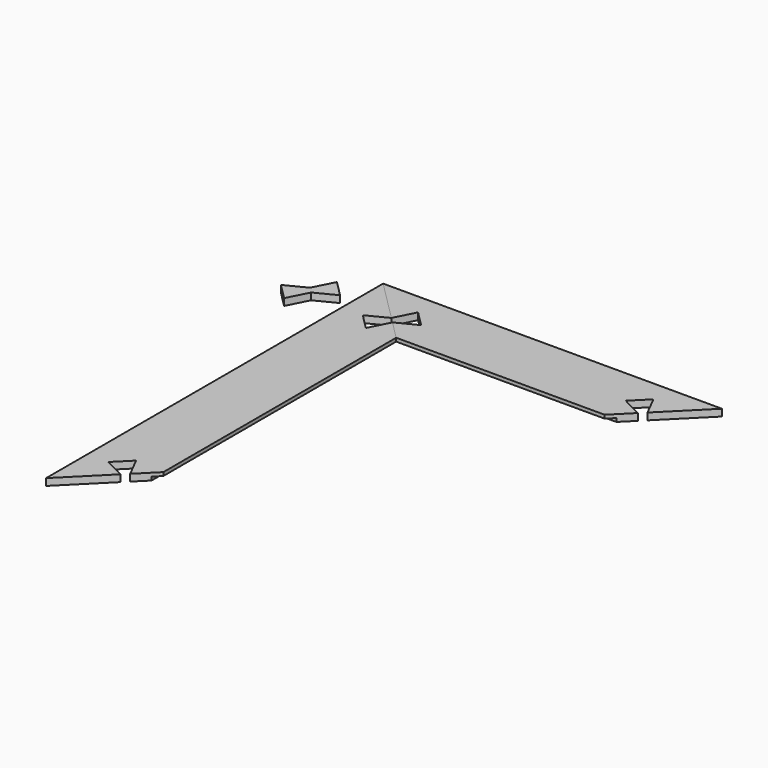
from build123d import *

# Parameters (mm, degrees)
F3_DEPTH = 6.35
F5_DEPTH = 6.35
F6_DEPTH = 3.17
F7_DEPTH = 6.35
F8_DEPTH = 3.17


with BuildPart() as f3:
    # F2 (on Top) → F3 (new body)
    with BuildSketch(Plane.XY):
        Polygon((-122.5165042945, 132.232233047), (-112.9705627485, 150.9705627485), (-117.9203102168, 155.9203102168), (-136.6586399182, 146.3743686708), align=None)
        Polygon((-122.4499501593, 131.8121255213), (-112.784684344, 150.784684344), (-112.9705627485, 150.9705627485), (-122.5165042945, 132.232233047), (-136.6586399182, 146.3743686708), (-117.9203102168, 155.9203102168), (-118.1061886213, 156.1061886213), (-137.078747444, 146.4409228059), align=None)
        Polygon((-117.9203102168, 155.9203102168), (-112.9705627485, 150.9705627485), (-94.232233047, 160.5165042945), (-108.3743686708, 174.6586399182), align=None)
        Polygon((-112.9705627485, 150.9705627485), (-112.784684344, 150.784684344), (-93.8121255213, 160.4499501593), (-108.4409228059, 175.078747444), (-118.1061886213, 156.1061886213), (-117.9203102168, 155.9203102168), (-108.3743686708, 174.6586399182), (-94.232233047, 160.5165042945), align=None)
    extrude(amount=F3_DEPTH)


with BuildPart() as f3_1:
    # F4: moved
    add(f3.part.moved(Location((-75, 0, 0))))


with BuildPart() as f5:
    # F2 (on Top) → F5 (new body)
    with BuildSketch(Plane.XY):
        Polygon((-96, -134), (-96, 134), (-102, 140), (-102, -140), align=None)
        Polygon((-122.4499501593, 131.8121255213), (-112.784684344, 150.784684344), (-112.9705627485, 150.9705627485), (-122.5165042945, 132.232233047), (-136.6586399182, 146.3743686708), (-117.9203102168, 155.9203102168), (-118.1061886213, 156.1061886213), (-137.078747444, 146.4409228059), align=None)
        Polygon((-112.9705627485, -150.9705627485), (-112.784684344, -150.784684344), (-122.4499501593, -131.8121255213), (-137.078747444, -146.4409228059), (-118.1061886213, -156.1061886213), (-117.9203102168, -155.9203102168), (-136.6586399182, -146.3743686708), (-122.5165042945, -132.232233047), align=None)
        Polygon((-102, -140), (-102, 140), (-112.784684344, 150.784684344), (-122.4499501593, 131.8121255213), (-137.078747444, 146.4409228059), (-118.1061886213, 156.1061886213), (-156, 194), (-156, -194), (-118.1061886213, -156.1061886213), (-137.078747444, -146.4409228059), (-122.4499501593, -131.8121255213), (-112.784684344, -150.784684344), align=None)
    extrude(amount=F5_DEPTH)

    # F2 (on Top) → F6 (cut)
    with BuildSketch(Plane.XY):
        Polygon((-96, -134), (-96, 134), (-102, 140), (-102, -140), align=None)
    extrude(amount=F6_DEPTH, mode=Mode.SUBTRACT)


with BuildPart() as f7:
    # F2 (on Top) → F7 (new body)
    with BuildSketch(Plane.XY):
        Polygon((-96, 134), (96, 134), (102, 140), (-102, 140), align=None)
        Polygon((-112.9705627485, 150.9705627485), (-112.784684344, 150.784684344), (-93.8121255213, 160.4499501593), (-108.4409228059, 175.078747444), (-118.1061886213, 156.1061886213), (-117.9203102168, 155.9203102168), (-108.3743686708, 174.6586399182), (-94.232233047, 160.5165042945), align=None)
        Polygon((93.8121255213, 160.4499501593), (112.784684344, 150.784684344), (112.9705627485, 150.9705627485), (94.232233047, 160.5165042945), (108.3743686708, 174.6586399182), (117.9203102168, 155.9203102168), (118.1061886213, 156.1061886213), (108.4409228059, 175.078747444), align=None)
        Polygon((-102, 140), (102, 140), (112.784684344, 150.784684344), (93.8121255213, 160.4499501593), (108.4409228059, 175.078747444), (118.1061886213, 156.1061886213), (156, 194), (-156, 194), (-118.1061886213, 156.1061886213), (-108.4409228059, 175.078747444), (-93.8121255213, 160.4499501593), (-112.784684344, 150.784684344), align=None)
    extrude(amount=F7_DEPTH)

    # F2 (on Top) → F8 (cut)
    with BuildSketch(Plane.XY):
        Polygon((-96, 134), (96, 134), (102, 140), (-102, 140), align=None)
    extrude(amount=F8_DEPTH, mode=Mode.SUBTRACT)


solid = Compound([f3_1.part, f5.part, f7.part])
